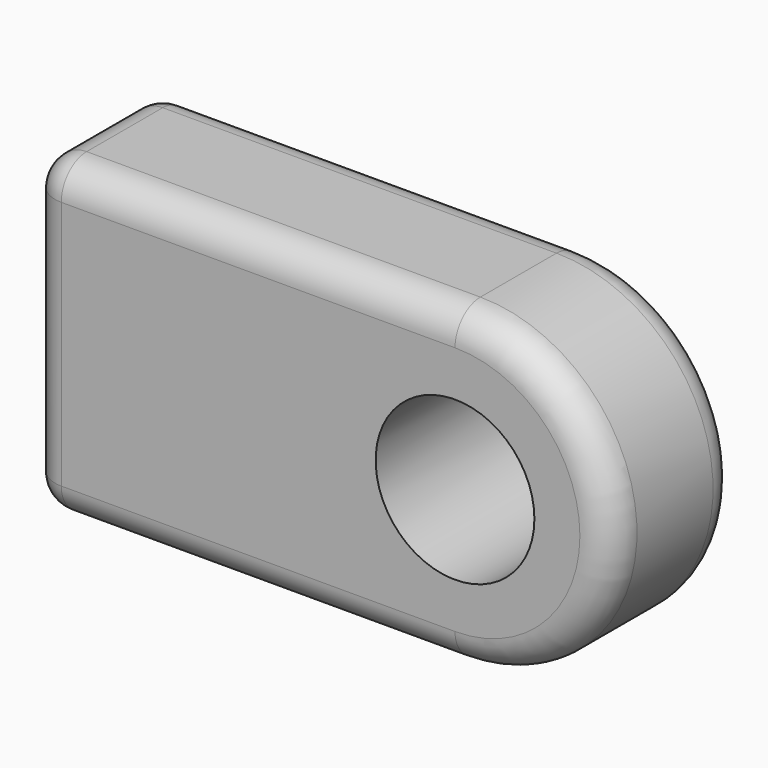
from build123d import *

# Parameters (mm, degrees)
F1_DEPTH = 25.4
F2_R     = 5.08
F3_R     = 12.717972
F4_DEPTH = 25.401


with BuildPart() as f1:
    # F0 (on Front) → F1 (new body)
    with BuildSketch(Plane.XZ):
        with BuildLine():
            ThreePointArc((34.087103, -25.091894), (59.178997, 0), (34.087103, 25.091894))
            Line((34.087103, 25.091894), (-34.087103, 25.091894))
            Line((-34.087103, 25.091894), (-34.087103, -25.091894))
            Line((-34.087103, -25.091894), (34.087103, -25.091894))
        make_face()
    extrude(amount=F1_DEPTH)

    # F2
    f2_edges = [f1.edges().sort_by_distance(p)[0] for p in [
        (0, -25.4, 25.091894),
        (-34.087103, -25.4, 0),
        (0, 0, -25.091894),
        (-34.087103, 0, 0),
        (-34.087103, -12.7, -25.091894),
        (-34.087103, -12.7, 25.091894),
    ]]
    fillet(f2_edges, radius=F2_R)

    # F3 (on face) → F4 (cut, through all)
    with BuildSketch(Plane.XZ.offset(25.4)):
        with Locations((34.087103, 0)):
            Circle(F3_R)
    extrude(amount=-F4_DEPTH, mode=Mode.SUBTRACT)


solid = f1.part
